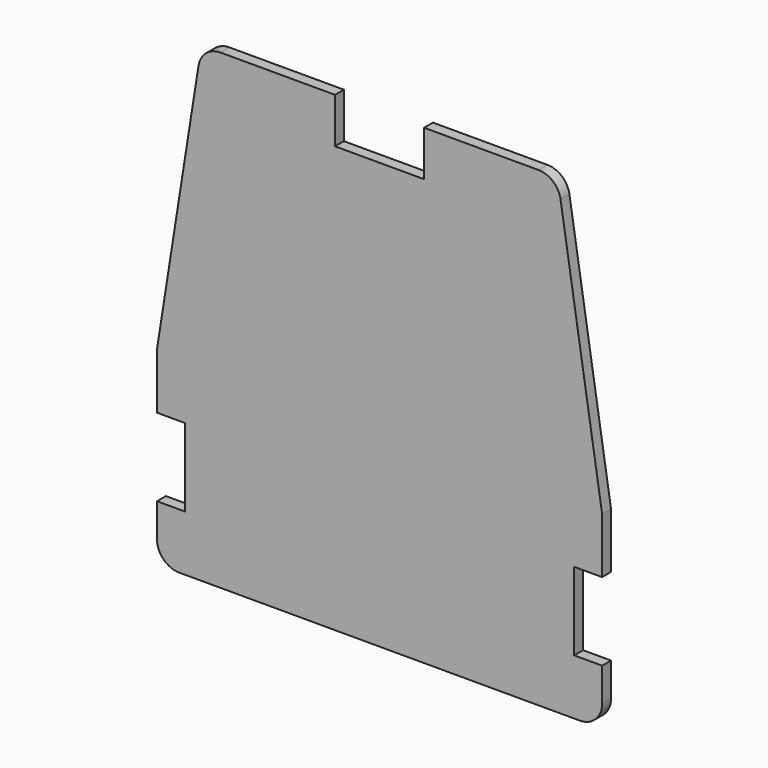
from build123d import *

# Parameters (mm, degrees)
F1_DEPTH = 3.175


with BuildPart() as f1:
    # F0 (on Front) → F1 (new body)
    with BuildSketch(Plane.XZ):
        with BuildLine():
            Line((-38.945842, 71.467524), (-50.8, -3.653912))
            Line((-50.8, -3.653912), (76.2, -3.653912))
            Line((76.2, -3.653912), (64.345842, 71.467524))
            ThreePointArc((64.345842, 71.467524), (62.198827, 75.305144), (58.073456, 76.827742))
            Line((58.073456, 76.827742), (25.4, 76.827742))
            Line((25.4, 76.827742), (25.4, 63.897327))
            Line((25.4, 63.897327), (0, 63.897327))
            Line((0, 63.897327), (0, 76.827742))
            Line((0, 76.827742), (-32.673456, 76.827742))
            ThreePointArc((-32.673456, 76.827742), (-36.798827, 75.305144), (-38.945842, 71.467524))
        make_face()
        with BuildLine():
            Line((76.2, -3.653912), (-50.8, -3.653912))
            Line((-50.8, -3.653912), (-50.8, -19.528912))
            Line((-50.8, -19.528912), (-42.8498, -19.528912))
            Line((-42.8498, -19.528912), (-42.8498, -41.753912))
            Line((-42.8498, -41.753912), (-50.7873, -41.753912))
            Line((-50.7873, -41.753912), (-50.7873, -51.278912))
            ThreePointArc((-50.7873, -51.278912), (-48.927428, -55.76904), (-44.4373, -57.628912))
            Line((-44.4373, -57.628912), (69.8627, -57.628912))
            ThreePointArc((69.8627, -57.628912), (74.352828, -55.76904), (76.2127, -51.278912))
            Line((76.2127, -51.278912), (76.2127, -41.753912))
            Line((76.2127, -41.753912), (68.2498, -41.753912))
            Line((68.2498, -41.753912), (68.2498, -19.528912))
            Line((68.2498, -19.528912), (76.2, -19.528912))
            Line((76.2, -19.528912), (76.2, -3.653912))
        make_face()
    extrude(amount=F1_DEPTH)


solid = f1.part
